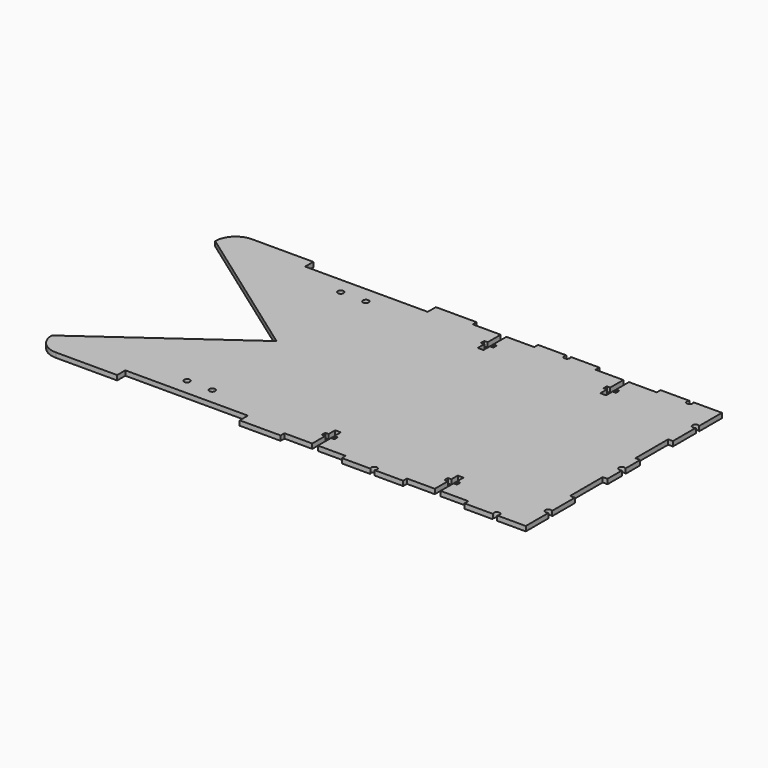
from build123d import *

# Parameters (mm, degrees)
F0_R     = 1.8161
F1_DEPTH = 2.9718


with BuildPart() as f1:
    # F0 (on Top) → F1 (new body)
    with BuildSketch(Plane.XY):
        with BuildLine():
            Line((134.594341, -76.2), (152.4, -76.2))
            Line((152.4, -76.2), (152.4, -58.394341))
            ThreePointArc((152.4, -58.394341), (149.352, -57.15), (152.4, -55.905659))
            Line((152.4, -55.905659), (152.4, -38.1))
            Line((152.4, -38.1), (149.4282, -38.1))
            Line((149.4282, -38.1), (149.4282, -12.7))
            Line((149.4282, -12.7), (152.4, -12.7))
            Line((152.4, -12.7), (152.4, -1.244341))
            ThreePointArc((152.4, -1.244341), (149.352, 0), (152.4, 1.244341))
            Line((152.4, 1.244341), (152.4, 12.7))
            Line((152.4, 12.7), (149.4282, 12.7))
            Line((149.4282, 12.7), (149.4282, 38.1))
            Line((149.4282, 38.1), (152.4, 38.1))
            Line((152.4, 38.1), (152.4, 55.905659))
            ThreePointArc((152.4, 55.905659), (149.352, 57.15), (152.4, 58.394341))
            Line((152.4, 58.394341), (152.4, 76.2))
            Line((152.4, 76.2), (134.594341, 76.2))
            ThreePointArc((134.594341, 76.2), (133.35, 73.152), (132.105659, 76.2))
            Line((132.105659, 76.2), (114.3, 76.2))
            Line((114.3, 76.2), (114.3, 73.2282))
            Line((114.3, 73.2282), (97.0153, 73.2282))
            Line((97.0153, 73.2282), (97.0153, 63.0682))
            Line((97.0153, 63.0682), (99.1362, 63.0682))
            Line((99.1362, 63.0682), (99.1362, 60.4266))
            Line((99.1362, 60.4266), (97.0153, 60.4266))
            Line((97.0153, 60.4266), (97.0153, 55.3974))
            Line((97.0153, 55.3974), (93.4847, 55.3974))
            Line((93.4847, 55.3974), (93.4847, 60.4266))
            Line((93.4847, 60.4266), (91.3638, 60.4266))
            Line((91.3638, 60.4266), (91.3638, 63.0682))
            Line((91.3638, 63.0682), (93.4847, 63.0682))
            Line((93.4847, 63.0682), (93.4847, 73.2282))
            Line((93.4847, 73.2282), (76.2, 73.2282))
            Line((76.2, 73.2282), (76.2, 76.2))
            Line((76.2, 76.2), (58.394341, 76.2))
            ThreePointArc((58.394341, 76.2), (57.15, 73.152), (55.905659, 76.2))
            Line((55.905659, 76.2), (38.1, 76.2))
            Line((38.1, 76.2), (38.1, 73.2282))
            Line((38.1, 73.2282), (20.8153, 73.2282))
            Line((20.8153, 73.2282), (20.8153, 63.0682))
            Line((20.8153, 63.0682), (22.9362, 63.0682))
            Line((22.9362, 63.0682), (22.9362, 60.4266))
            Line((22.9362, 60.4266), (20.8153, 60.4266))
            Line((20.8153, 60.4266), (20.8153, 55.3974))
            Line((20.8153, 55.3974), (17.2847, 55.3974))
            Line((17.2847, 55.3974), (17.2847, 60.4266))
            Line((17.2847, 60.4266), (15.1638, 60.4266))
            Line((15.1638, 60.4266), (15.1638, 63.0682))
            Line((15.1638, 63.0682), (17.2847, 63.0682))
            Line((17.2847, 63.0682), (17.2847, 73.2282))
            Line((17.2847, 73.2282), (0, 73.2282))
            Line((0, 73.2282), (0, 76.2))
            Line((0, 76.2), (-25.4, 76.2))
            Line((-25.4, 76.2), (-25.4, 69.85))
            Line((-25.4, 69.85), (-101.6, 69.85))
            Line((-101.6, 69.85), (-101.6, 76.2))
            Line((-101.6, 76.2), (-139.7, 76.2))
            ThreePointArc((-139.7, 76.2), (-148.680256, 72.480256), (-152.4, 63.5))
            Line((-152.4, 63.5), (-63.5, 0))
            Line((-63.5, 0), (-152.4, -63.5))
            ThreePointArc((-152.4, -63.5), (-148.680256, -72.480256), (-139.7, -76.2))
            Line((-139.7, -76.2), (-101.6, -76.2))
            Line((-101.6, -76.2), (-101.6, -69.85))
            Line((-101.6, -69.85), (-25.4, -69.85))
            Line((-25.4, -69.85), (-25.4, -76.2))
            Line((-25.4, -76.2), (0, -76.2))
            Line((0, -76.2), (0, -73.2282))
            Line((0, -73.2282), (17.2847, -73.2282))
            Line((17.2847, -73.2282), (17.2847, -63.0682))
            Line((17.2847, -63.0682), (15.1638, -63.0682))
            Line((15.1638, -63.0682), (15.1638, -60.4266))
            Line((15.1638, -60.4266), (17.2847, -60.4266))
            Line((17.2847, -60.4266), (17.2847, -55.3974))
            Line((17.2847, -55.3974), (20.8153, -55.3974))
            Line((20.8153, -55.3974), (20.8153, -60.4266))
            Line((20.8153, -60.4266), (22.9362, -60.4266))
            Line((22.9362, -60.4266), (22.9362, -63.0682))
            Line((22.9362, -63.0682), (20.8153, -63.0682))
            Line((20.8153, -63.0682), (20.8153, -73.2282))
            Line((20.8153, -73.2282), (38.1, -73.2282))
            Line((38.1, -73.2282), (38.1, -76.2))
            Line((38.1, -76.2), (55.905659, -76.2))
            ThreePointArc((55.905659, -76.2), (57.15, -73.152), (58.394341, -76.2))
            Line((58.394341, -76.2), (76.2, -76.2))
            Line((76.2, -76.2), (76.2, -73.2282))
            Line((76.2, -73.2282), (93.4847, -73.2282))
            Line((93.4847, -73.2282), (93.4847, -63.0682))
            Line((93.4847, -63.0682), (91.3638, -63.0682))
            Line((91.3638, -63.0682), (91.3638, -60.4266))
            Line((91.3638, -60.4266), (93.4847, -60.4266))
            Line((93.4847, -60.4266), (93.4847, -55.3974))
            Line((93.4847, -55.3974), (97.0153, -55.3974))
            Line((97.0153, -55.3974), (97.0153, -60.4266))
            Line((97.0153, -60.4266), (99.1362, -60.4266))
            Line((99.1362, -60.4266), (99.1362, -63.0682))
            Line((99.1362, -63.0682), (97.0153, -63.0682))
            Line((97.0153, -63.0682), (97.0153, -73.2282))
            Line((97.0153, -73.2282), (114.3, -73.2282))
            Line((114.3, -73.2282), (114.3, -76.2))
            Line((114.3, -76.2), (132.105659, -76.2))
            ThreePointArc((132.105659, -76.2), (133.35, -73.152), (134.594341, -76.2))
        make_face()
        with Locations((-71.3105, -59.69)):
            Circle(F0_R, mode=Mode.SUBTRACT)
        with Locations((-55.6895, -59.69)):
            Circle(F0_R, mode=Mode.SUBTRACT)
        with Locations((-71.3105, 59.69)):
            Circle(F0_R, mode=Mode.SUBTRACT)
        with Locations((-55.6895, 59.69)):
            Circle(F0_R, mode=Mode.SUBTRACT)
    extrude(amount=F1_DEPTH)


solid = f1.part
